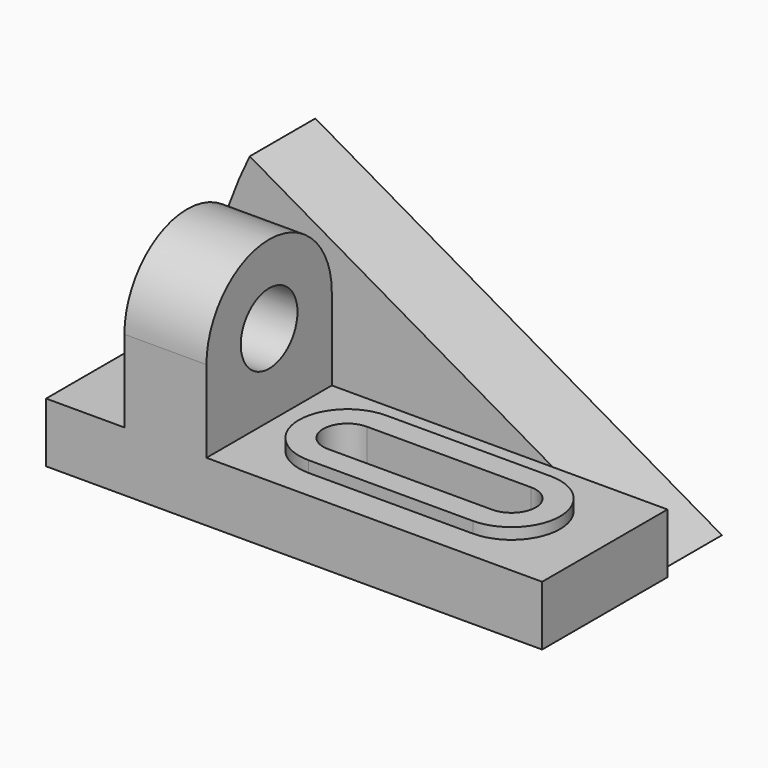
from build123d import *

# Parameters (mm, degrees)
F1_DEPTH  = 42
F2_R      = 9.5
F3_DEPTH  = 43.001
F5_DEPTH  = 43.001
F7_DEPTH  = 3
F9_DEPTH  = 19.001
F11_DEPTH = 22


with BuildPart() as f1:
    # F0 (on Front) → F1 (new body)
    with BuildSketch(Plane.XZ):
        Polygon((0, 16), (0, 0), (133, 0), (133, 16), (43, 16), (43, 60), (21, 60), (21, 16), align=None)
    extrude(amount=F1_DEPTH)

    # F2 (on face) → F3 (cut, through all)
    with BuildSketch(Plane.YZ.offset(43)):
        with Locations((-21, 38)):
            Circle(F2_R)
    extrude(amount=-F3_DEPTH, mode=Mode.SUBTRACT)

    # F4 (on face) → F5 (cut, through all)
    with BuildSketch(Plane.YZ.offset(43)):
        with BuildLine():
            Line((-42, 60), (-42, 38))
            ThreePointArc((-42, 38), (-21, 59), (0, 38))
            Line((0, 38), (0, 60))
            Line((0, 60), (-42, 60))
        make_face()
    extrude(amount=-F5_DEPTH, mode=Mode.SUBTRACT)

    # F6 (on face) → F7 (join)
    with BuildSketch(Plane.XY.offset(16)):
        with BuildLine():
            Line((108, -8), (64, -8))
            ThreePointArc((64, -8), (51, -21), (64, -34))
            Line((64, -34), (108, -34))
            ThreePointArc((108, -34), (121, -21), (108, -8))
        make_face()
    extrude(amount=F7_DEPTH)

    # F8 (on face) → F9 (cut, through all)
    with BuildSketch(Plane.XY.offset(19)):
        with BuildLine():
            Line((108, -14.5), (64, -14.5))
            ThreePointArc((64, -14.5), (57.5, -21), (64, -27.5))
            Line((64, -27.5), (108, -27.5))
            ThreePointArc((108, -27.5), (114.5, -21), (108, -14.5))
        make_face()
    extrude(amount=-F9_DEPTH, mode=Mode.SUBTRACT)

    # F10 (on face) → F11 (join)
    with BuildSketch(Plane(origin=(0, 0, 0), x_dir=(-1, 0, 0), z_dir=(0, 1, 0))):
        with BuildLine():
            Line((-21, 62.931179), (-130, 0))
            Line((-130, 0), (-9, 0))
            ThreePointArc((-9, 0), (-10.759382, 32.27421), (-21, 62.931179))
        make_face()
    extrude(amount=F11_DEPTH)


solid = f1.part
